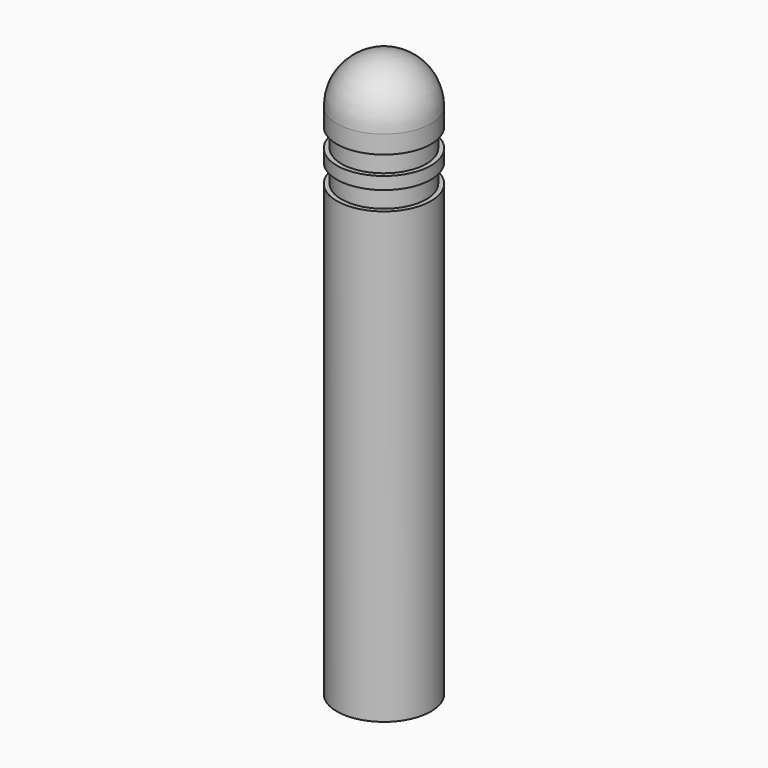
from build123d import *


with BuildPart() as f1:
    # F0 (on Front) → F1 (revolve)
    with BuildSketch(Plane.XZ):
        with BuildLine():
            Line((0, -55), (0, 5))
            ThreePointArc((0, 5), (-3.535534, 3.535534), (-5, 0))
            Line((-5, 0), (-5, -1.918864))
            Line((-5, -1.918864), (-4.511429, -1.918864))
            Line((-4.511429, -1.918864), (-4.511429, -3.918864))
            Line((-4.511429, -3.918864), (-5, -3.918864))
            Line((-5, -3.918864), (-5, -5.237238))
            Line((-5, -5.237238), (-4.511429, -5.237238))
            Line((-4.511429, -5.237238), (-4.511429, -7.237238))
            Line((-4.511429, -7.237238), (-5, -7.237238))
            Line((-5, -7.237238), (-5, -55))
            Line((-5, -55), (0, -55))
        make_face()
    revolve(axis=Axis((0, 0, -25), (0, 0, 1)))


solid = f1.part
